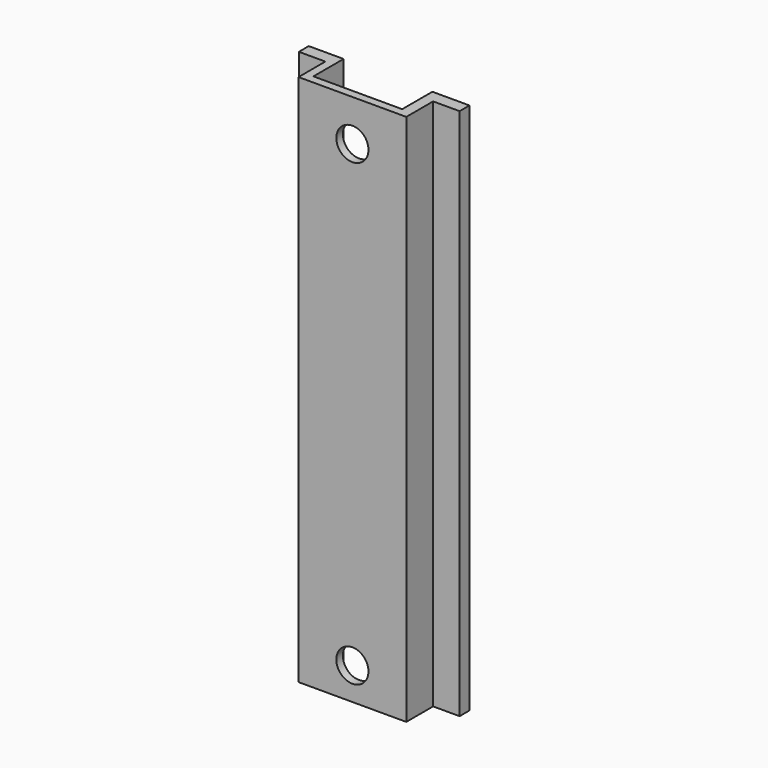
from build123d import *

# Parameters (mm, degrees)
F1_DEPTH = 116
F3_D     = 7
F3_DEPTH = 14.4


with BuildPart() as f1:
    # F0 (on Top) → F1 (new body)
    with BuildSketch(Plane.XY):
        Polygon((-9.915597, 5), (-17.5, 5), (-17.5, 2.306831), (-11.734474, 2.306831), (-11.734474, -5), (11.734474, -5), (11.734474, 2.306831), (17.5, 2.306831), (17.5, 5), (9.418392, 5), (9.418392, -3.217165), (-9.915597, -3.217165), align=None)
    extrude(amount=F1_DEPTH)

    # F3
    with Locations(Plane(origin=(0, -3.217165, 0), x_dir=(-1, 0, 0), z_dir=(0, 1, 0))):
        with Locations((0, 107), (0, 7)):
            Hole(F3_D / 2, depth=F3_DEPTH)


solid = f1.part
